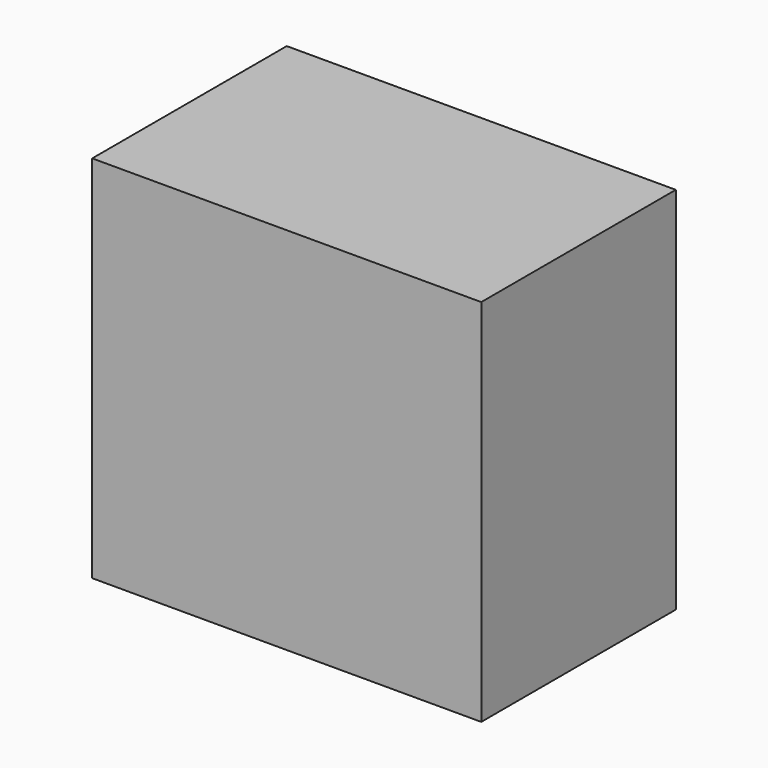
from build123d import *

# Parameters (mm, degrees)
F0_W     = 215.9
F0_H     = 342.9
F0_R     = 6.35
F1_DEPTH = 12.7
F2_W     = 155.575
F2_H     = 323.85
F3_DEPTH = 44.45
F4_W     = 1016
F4_H     = 635
F5_DEPTH = 965.2


with BuildPart() as f1:
    # F0 (on Top) → F1 (new body)
    with BuildSketch(Plane.XY):
        Rectangle(F0_W, F0_H)
        with Locations((-95.25, -107.95)):
            Circle(F0_R, mode=Mode.SUBTRACT)
        with Locations((95.25, -107.95)):
            Circle(F0_R, mode=Mode.SUBTRACT)
        with Locations((-95.25, 120.65)):
            Circle(F0_R, mode=Mode.SUBTRACT)
        with Locations((95.25, 120.65)):
            Circle(F0_R, mode=Mode.SUBTRACT)
    extrude(amount=F1_DEPTH)

    # F2 (on face) → F3 (join)
    with BuildSketch(Plane.XY):
        Rectangle(F2_W, F2_H)
    extrude(amount=F3_DEPTH)

    # F4 (on face) → F5 (join)
    with BuildSketch(Plane.XY.offset(44.45)):
        Rectangle(F4_W, F4_H)
    extrude(amount=F5_DEPTH)


solid = f1.part
